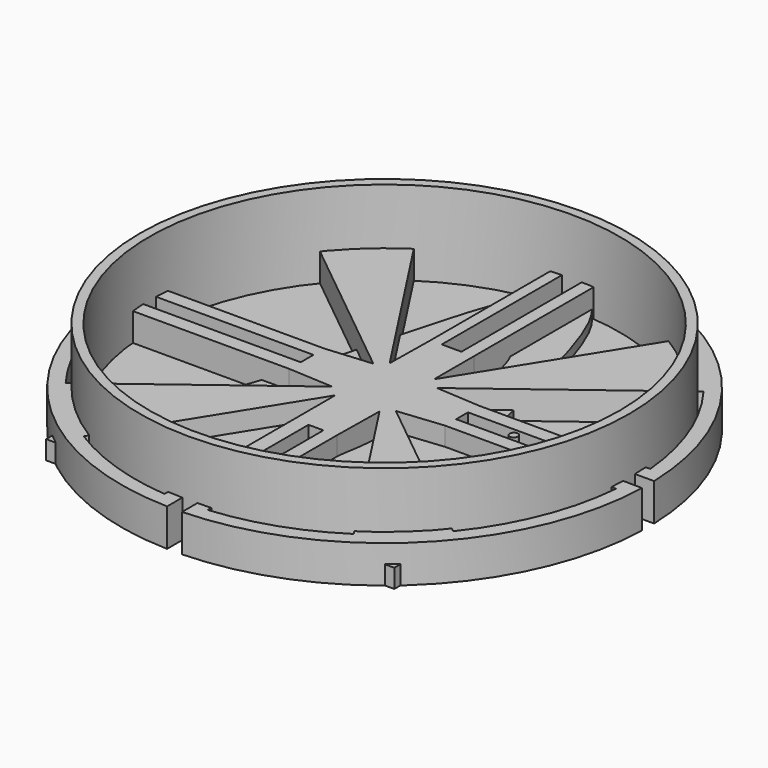
from build123d import *

# Parameters (mm, degrees)
F1_R     = 65.415344
F2_DEPTH = 25
F3_T     = -2.5
F4_R     = 65.511445
F4_R_2   = 2.047697
F5_DEPTH = 2
F7_DEPTH = 5
F0_W     = 7.06006
F0_H     = 3.979711
F0_R     = 1.087828
F8_DEPTH = 10


with BuildPart() as f2:
    # F1 (on Top) → F2 (new body)
    with BuildSketch(Plane.XY):
        Circle(F1_R)
    extrude(amount=F2_DEPTH)

    # F3
    f3_openings = [f2.faces().sort_by_distance(p)[0] for p in [
        (0, 0, 25),
    ]]
    offset(amount=F3_T, openings=f3_openings)


with BuildPart() as f5:
    # F4 (on Top) → F5 (new body)
    with BuildSketch(Plane.XY):
        Circle(F4_R)
        with Locations((0, -25.720464)):
            Circle(F4_R_2, mode=Mode.SUBTRACT)
        with Locations((0, 25.720464)):
            Circle(F4_R_2, mode=Mode.SUBTRACT)
    extrude(amount=F5_DEPTH)


with BuildPart() as f7:
    # F6 (on Top) → F7 (new body)
    with BuildSketch(Plane.XY):
        with BuildLine():
            add(Edge.make_bspline(
                [(-46.559539, -46.559542), (-17.301039, 0), (-17.074941, 63.914396), (0, 65.593898)],
                knots=[0, 0, 0, 0, 121.433871, 121.433871, 121.433871, 121.433871], degree=3))
            Line((-46.559539, -46.559542), (0, -46.559542))
            Line((0, -46.559542), (0, -34.616411))
            add(Edge.make_bspline(
                [(-7.37629, 9.135005), (-10.020666, -34.616411), (0, -34.616411)],
                knots=[4.445334, 4.445334, 4.445334, 6.283185, 6.283185, 6.283185], degree=2, weights=[1, 0.606674, 1]))
            add(Edge.make_bspline(
                [(0, 39.748225), (-16.047853, 39.748225), (-7.37629, 9.135005)],
                knots=[3.141593, 3.141593, 3.141593, 5.28325, 5.28325, 5.28325], degree=2, weights=[1, 0.479397, 1]))
            Line((0, 39.748225), (0, 52.536493))
            ThreePointArc((0, 52.536493), (-2.420558, 54.957051), (0, 57.377609))
            Line((0, 57.377609), (0, 65.593898))
        make_face()
        Polygon((0, -46.559542), (-46.559539, -46.559542), (-46.559539, -54.957051), (46.559539, -54.957051), (46.559539, -46.559542), align=None)
        with BuildLine():
            Line((0, -34.616411), (0, -46.559542))
            Line((0, -46.559542), (46.559539, -46.559542))
            add(Edge.make_bspline(
                [(46.559539, -46.559542), (17.301039, 0), (17.074941, 63.914396), (0, 65.593898)],
                knots=[0, 0, 0, 0, 121.433871, 121.433871, 121.433871, 121.433871], degree=3))
            Line((0, 65.593898), (0, 57.377609))
            ThreePointArc((0, 57.377609), (1.711593, 56.668644), (2.420558, 54.957051))
            ThreePointArc((2.420558, 54.957051), (1.711593, 53.245458), (0, 52.536493))
            Line((0, 52.536493), (0, 39.748225))
            add(Edge.make_bspline(
                [(7.37629, 9.135005), (16.047853, 39.748225), (0, 39.748225)],
                knots=[0.999935, 0.999935, 0.999935, 3.141593, 3.141593, 3.141593], degree=2, weights=[1, 0.479397, 1]))
            add(Edge.make_bspline(
                [(0, -34.616411), (10.020666, -34.616411), (7.37629, 9.135005)],
                knots=[0, 0, 0, 1.837852, 1.837852, 1.837852], degree=2, weights=[1, 0.606674, 1]))
        make_face()
    extrude(amount=F7_DEPTH)


with BuildPart() as f8:
    # F0 (on Top) → F8 (new body)
    with BuildSketch(Plane.XY):
        with BuildLine():
            Line((-1.822446, -23.166081), (2.176449, -23.166081))
            Line((2.176449, -23.166081), (2.176449, -10.729756))
            ThreePointArc((2.176449, -10.729756), (0.18003, -10.946789), (-1.822446, -10.795521))
            Line((-1.822446, -10.795521), (-1.822446, -23.166081))
        make_face()
        with BuildLine():
            Line((20.671686, 2.043886), (66.597078, 2.043886))
            ThreePointArc((66.597078, 2.043886), (66.511847, 3.939863), (66.372649, 5.832643))
            Line((66.372649, 5.832643), (20.671034, 5.824757))
            Line((20.671034, 5.824757), (20.671686, 2.043886))
        make_face()
        with BuildLine():
            ThreePointArc((-53.202577, -40.110273), (-44.977006, -49.157066), (-35.236739, -56.54839))
            Line((-35.236739, -56.54839), (-5.79004, -9.291934))
            ThreePointArc((-5.79004, -9.291934), (-7.390544, -8.077404), (-8.742155, -6.590851))
            Line((-8.742155, -6.590851), (-53.202577, -40.110273))
        make_face()
        with BuildLine():
            Line((5.787745, 22.5925), (2.480929, 22.5925))
            Line((2.480929, 22.5925), (2.480929, 10.663469))
            ThreePointArc((2.480929, 10.663469), (4.191958, 10.113955), (5.79004, 9.291934))
            Line((5.79004, 9.291934), (5.787745, 22.5925))
        make_face()
        with BuildLine():
            Line((2.176449, -23.166081), (2.176449, -66.592877))
            ThreePointArc((2.176449, -66.592877), (3.978074, -66.509572), (5.776785, -66.377534))
            Line((5.776785, -66.377534), (5.776785, -23.166081))
            Line((5.776785, -23.166081), (2.176449, -23.166081))
        make_face()
        with BuildLine():
            Line((-2.784222, 10.588328), (-2.784222, 22.5925))
            Line((-2.784222, 22.5925), (-5.785265, 22.5925))
            Line((-5.785265, 22.5925), (-5.979406, 9.171221))
            ThreePointArc((-5.979406, 9.171221), (-4.438732, 10.008109), (-2.784222, 10.588328))
        make_face()
        with BuildLine():
            Line((2.176449, -10.729756), (2.176449, -23.166081))
            Line((2.176449, -23.166081), (5.776785, -23.166081))
            Line((5.776785, -23.166081), (5.979406, -9.171221))
            ThreePointArc((5.979406, -9.171221), (4.151716, -10.13054), (2.176449, -10.729756))
        make_face()
        with BuildLine():
            Line((-5.979406, 9.171221), (-36.389173, 55.813765))
            ThreePointArc((-36.389173, 55.813765), (-44.649641, 49.454603), (-51.817096, 41.884804))
            Line((-51.817096, 41.884804), (-8.514495, 6.882438))
            ThreePointArc((-8.514495, 6.882438), (-7.336752, 8.126295), (-5.979406, 9.171221))
        make_face()
        with BuildLine():
            ThreePointArc((-5.781071, -66.377161), (-3.803442, -66.519787), (-1.822446, -66.603505))
            Line((-1.822446, -66.603505), (-1.822446, -23.166081))
            Line((-1.822446, -23.166081), (-5.781071, -23.166081))
            Line((-5.781071, -23.166081), (-5.781071, -66.377161))
        make_face()
        with BuildLine():
            ThreePointArc((-66.373346, 5.824708), (-66.50841, 3.99746), (-66.593179, 2.167189))
            Line((-66.593179, 2.167189), (-20.765832, 2.167189))
            Line((-20.765832, 2.167189), (-20.765832, 5.824708))
            Line((-20.765832, 5.824708), (-66.373346, 5.824708))
        make_face()
        with BuildLine():
            ThreePointArc((36.389173, -55.813765), (44.649641, -49.454603), (51.817096, -41.884804))
            Line((51.817096, -41.884804), (8.514495, -6.882438))
            ThreePointArc((8.514495, -6.882438), (7.336752, -8.126295), (5.979406, -9.171221))
            Line((5.979406, -9.171221), (36.389173, -55.813765))
        make_face()
        with BuildLine():
            Line((-5.781071, -23.166081), (-1.822446, -23.166081))
            Line((-1.822446, -23.166081), (-1.822446, -10.795521))
            ThreePointArc((-1.822446, -10.795521), (-3.879778, -10.237769), (-5.79004, -9.291934))
            Line((-5.79004, -9.291934), (-5.781071, -23.166081))
        make_face()
        with BuildLine():
            Line((-20.765832, 5.824708), (-20.765832, 2.167189))
            Line((-20.765832, 2.167189), (-10.73163, 2.167189))
            ThreePointArc((-10.73163, 2.167189), (-9.90766, 4.658633), (-8.514495, 6.882438))
            Line((-8.514495, 6.882438), (-20.765832, 5.824708))
        make_face()
        with BuildLine():
            Line((20.671686, -1.935825), (20.671686, 2.043886))
            Line((20.671686, 2.043886), (10.755795, 2.043886))
            ThreePointArc((10.755795, 2.043886), (10.900044, 1.026465), (10.948269, 0))
            ThreePointArc((10.948269, 0), (10.905058, -0.971748), (10.775768, -1.935825))
            Line((10.775768, -1.935825), (20.671686, -1.935825))
        make_face()
        with BuildLine():
            ThreePointArc((2.176449, -70.431022), (49.891466, -49.7605), (70.436499, -1.991316))
            Line((70.436499, -1.991316), (66.600307, -1.935825))
            ThreePointArc((66.600307, -1.935825), (66.520854, -3.784731), (66.390084, -5.630716))
            ThreePointArc((66.390084, -5.630716), (61.820903, -24.850033), (51.817096, -41.884804))
            ThreePointArc((51.817096, -41.884804), (44.649641, -49.454603), (36.389173, -55.813765))
            ThreePointArc((36.389173, -55.813765), (21.734542, -62.983791), (5.776785, -66.377534))
            ThreePointArc((5.776785, -66.377534), (3.978074, -66.509572), (2.176449, -66.592877))
            Line((2.176449, -66.592877), (2.176449, -70.431022))
        make_face()
        with BuildLine():
            Line((-2.784222, 66.570236), (-2.784222, 70.409615))
            ThreePointArc((-2.784222, 70.409615), (-50.043837, 49.607259), (-70.431307, 2.167189))
            Line((-70.431307, 2.167189), (-66.593179, 2.167189))
            ThreePointArc((-66.593179, 2.167189), (-66.50841, 3.99746), (-66.373346, 5.824708))
            ThreePointArc((-66.373346, 5.824708), (-61.784527, 24.940338), (-51.817096, 41.884804))
            ThreePointArc((-51.817096, 41.884804), (-44.649641, 49.454603), (-36.389173, 55.813765))
            ThreePointArc((-36.389173, 55.813765), (-21.738565, 62.982403), (-5.785265, 66.376795))
            ThreePointArc((-5.785265, 66.376795), (-4.285835, 66.490449), (-2.784222, 66.570236))
        make_face()
        with BuildLine():
            Line((8.742155, 6.590851), (53.202577, 40.110273))
            ThreePointArc((53.202577, 40.110273), (44.977006, 49.157066), (35.236739, 56.54839))
            Line((35.236739, 56.54839), (5.79004, 9.291934))
            ThreePointArc((5.79004, 9.291934), (7.390544, 8.077404), (8.742155, 6.590851))
        make_face()
        with BuildLine():
            Line((-10.73163, 2.167189), (-20.765832, 2.167189))
            Line((-20.765832, 2.167189), (-20.765832, -2.086523))
            Line((-20.765832, -2.086523), (-10.747605, -2.086523))
            ThreePointArc((-10.747605, -2.086523), (-10.948192, 0.041116), (-10.73163, 2.167189))
        make_face()
        with BuildLine():
            ThreePointArc((10.948269, 0), (10.900044, 1.026465), (10.755795, 2.043886))
            ThreePointArc((10.755795, 2.043886), (10.010556, 4.433211), (8.742155, 6.590851))
            ThreePointArc((8.742155, 6.590851), (7.390544, 8.077404), (5.79004, 9.291934))
            ThreePointArc((5.79004, 9.291934), (4.191958, 10.113955), (2.480929, 10.663469))
            ThreePointArc((2.480929, 10.663469), (-0.156231, 10.947154), (-2.784222, 10.588328))
            ThreePointArc((-2.784222, 10.588328), (-4.438732, 10.008109), (-5.979406, 9.171221))
            ThreePointArc((-5.979406, 9.171221), (-7.336752, 8.126295), (-8.514495, 6.882438))
            ThreePointArc((-8.514495, 6.882438), (-9.90766, 4.658633), (-10.73163, 2.167189))
            ThreePointArc((-10.73163, 2.167189), (-10.948192, 0.041116), (-10.747605, -2.086523))
            ThreePointArc((-10.747605, -2.086523), (-10.001746, -4.453051), (-8.742155, -6.590851))
            ThreePointArc((-8.742155, -6.590851), (-7.390544, -8.077404), (-5.79004, -9.291934))
            ThreePointArc((-5.79004, -9.291934), (-3.879778, -10.237769), (-1.822446, -10.795521))
            ThreePointArc((-1.822446, -10.795521), (0.18003, -10.946789), (2.176449, -10.729756))
            ThreePointArc((2.176449, -10.729756), (4.151716, -10.13054), (5.979406, -9.171221))
            ThreePointArc((5.979406, -9.171221), (7.336752, -8.126295), (8.514495, -6.882438))
            ThreePointArc((8.514495, -6.882438), (9.957199, -4.551789), (10.775768, -1.935825))
            ThreePointArc((10.775768, -1.935825), (10.905058, -0.971748), (10.948269, 0))
        make_face()
        with Locations((0.07282, 0.054031)):
            Rectangle(F0_W, F0_H, mode=Mode.SUBTRACT)
        with BuildLine():
            Line((10.755795, 2.043886), (20.671686, 2.043886))
            Line((20.671686, 2.043886), (20.671034, 5.824757))
            Line((20.671034, 5.824757), (8.742155, 6.590851))
            ThreePointArc((8.742155, 6.590851), (10.010556, 4.433211), (10.755795, 2.043886))
        make_face()
        with BuildLine():
            Line((2.480929, 10.663469), (2.480929, 22.5925))
            Line((2.480929, 22.5925), (-2.784222, 22.5925))
            Line((-2.784222, 22.5925), (-2.784222, 10.588328))
            ThreePointArc((-2.784222, 10.588328), (-0.156231, 10.947154), (2.480929, 10.663469))
        make_face()
        with BuildLine():
            ThreePointArc((-70.433743, -2.086523), (-49.732537, -49.91934), (-1.822446, -70.441071))
            Line((-1.822446, -70.441071), (-1.822446, -66.603505))
            ThreePointArc((-1.822446, -66.603505), (-3.803442, -66.519787), (-5.781071, -66.377161))
            ThreePointArc((-5.781071, -66.377161), (-21.089485, -63.202705), (-35.236739, -56.54839))
            ThreePointArc((-35.236739, -56.54839), (-44.977006, -49.157066), (-53.202577, -40.110273))
            ThreePointArc((-53.202577, -40.110273), (-62.18106, -23.934577), (-66.365488, -5.913566))
            ThreePointArc((-66.365488, -5.913566), (-66.508155, -4.001701), (-66.595756, -2.086523))
            Line((-66.595756, -2.086523), (-70.433743, -2.086523))
        make_face()
        with BuildLine():
            ThreePointArc((5.787745, 66.376579), (4.135616, 66.499962), (2.480929, 66.582229))
            Line((2.480929, 66.582229), (2.480929, 22.5925))
            Line((2.480929, 22.5925), (5.787745, 22.5925))
            Line((5.787745, 22.5925), (5.787745, 66.376579))
        make_face()
        with BuildLine():
            Line((66.597078, 2.043886), (70.434993, 2.043886))
            ThreePointArc((70.434993, 2.043886), (49.980384, 49.671189), (2.480929, 70.420954))
            Line((2.480929, 70.420954), (2.480929, 66.582229))
            ThreePointArc((2.480929, 66.582229), (4.135616, 66.499962), (5.787745, 66.376579))
            ThreePointArc((5.787745, 66.376579), (21.092662, 63.201644), (35.236739, 56.54839))
            ThreePointArc((35.236739, 56.54839), (44.977006, 49.157066), (53.202577, 40.110273))
            ThreePointArc((53.202577, 40.110273), (62.19564, 23.896665), (66.372649, 5.832643))
            ThreePointArc((66.372649, 5.832643), (66.511847, 3.939863), (66.597078, 2.043886))
        make_face()
        with BuildLine():
            Line((-2.784222, 22.5925), (-2.784222, 66.570236))
            ThreePointArc((-2.784222, 66.570236), (-4.285835, 66.490449), (-5.785265, 66.376795))
            Line((-5.785265, 66.376795), (-5.785265, 22.5925))
            Line((-5.785265, 22.5925), (-2.784222, 22.5925))
        make_face()
        with Locations((0.07282, 0.054031)):
            Rectangle(F0_W, F0_H)
        with BuildLine():
            Line((-20.765832, -2.086523), (-66.595756, -2.086523))
            ThreePointArc((-66.595756, -2.086523), (-66.508155, -4.001701), (-66.365488, -5.913566))
            Line((-66.365488, -5.913566), (-20.765832, -5.913566))
            Line((-20.765832, -5.913566), (-20.765832, -2.086523))
        make_face()
        with BuildLine():
            ThreePointArc((66.390084, -5.630716), (66.520854, -3.784731), (66.600307, -1.935825))
            Line((66.600307, -1.935825), (20.671686, -1.935825))
            Line((20.671686, -1.935825), (20.671686, -5.630716))
            Line((20.671686, -5.630716), (66.390084, -5.630716))
        make_face()
        with BuildLine():
            Line((-10.747605, -2.086523), (-20.765832, -2.086523))
            Line((-20.765832, -2.086523), (-20.765832, -5.913566))
            Line((-20.765832, -5.913566), (-8.742155, -6.590851))
            ThreePointArc((-8.742155, -6.590851), (-10.001746, -4.453051), (-10.747605, -2.086523))
        make_face()
        with BuildLine():
            Line((20.671686, -5.630716), (20.671686, -1.935825))
            Line((20.671686, -1.935825), (10.775768, -1.935825))
            ThreePointArc((10.775768, -1.935825), (9.957199, -4.551789), (8.514495, -6.882438))
            Line((8.514495, -6.882438), (20.671686, -5.630716))
        make_face()
        with Locations((34.571357, 0)):
            Circle(F0_R)
    extrude(amount=F8_DEPTH)


solid = Compound([f2.part, f5.part, f7.part, f8.part])
